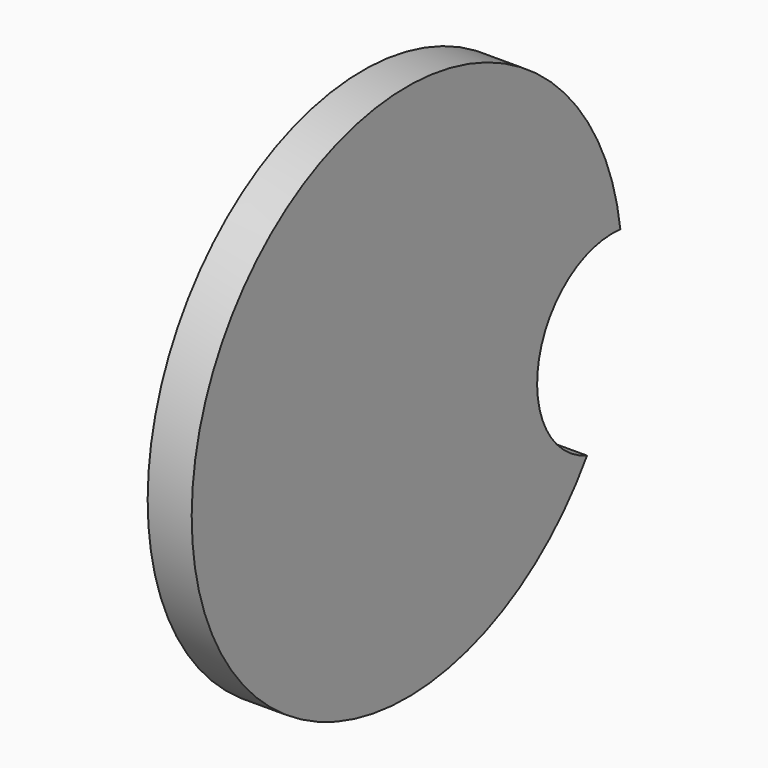
from build123d import *

# Parameters (mm, degrees)
F0_R     = 170.1172198456
F1_DEPTH = 27.8398692608
F3_DEPTH = 74.2204003036


with BuildPart() as f1:
    # F0 (on Right) → F1 (new body)
    with BuildSketch(Plane.YZ):
        with Locations((-46.459376812, 15.9207433462)):
            Circle(F0_R)
    extrude(amount=-F1_DEPTH)

    # F2 (on face) → F3 (cut)
    with BuildSketch(Plane(origin=(-27.8398692608, 0, 0), x_dir=(0, -1, 0), z_dir=(-1, 0, 0))):
        with BuildLine():
            ThreePointArc((-122.2150490302, 38.0297133543), (-119.3889514859, -21.9500962113), (-95.9001192193, -77.2116483214))
            ThreePointArc((-95.9001192193, -77.2116483214), (-57.9290716898, -7.9159647198), (-122.2150490302, 38.0297133543))
        make_face()
    extrude(amount=-F3_DEPTH, mode=Mode.SUBTRACT)


solid = f1.part
